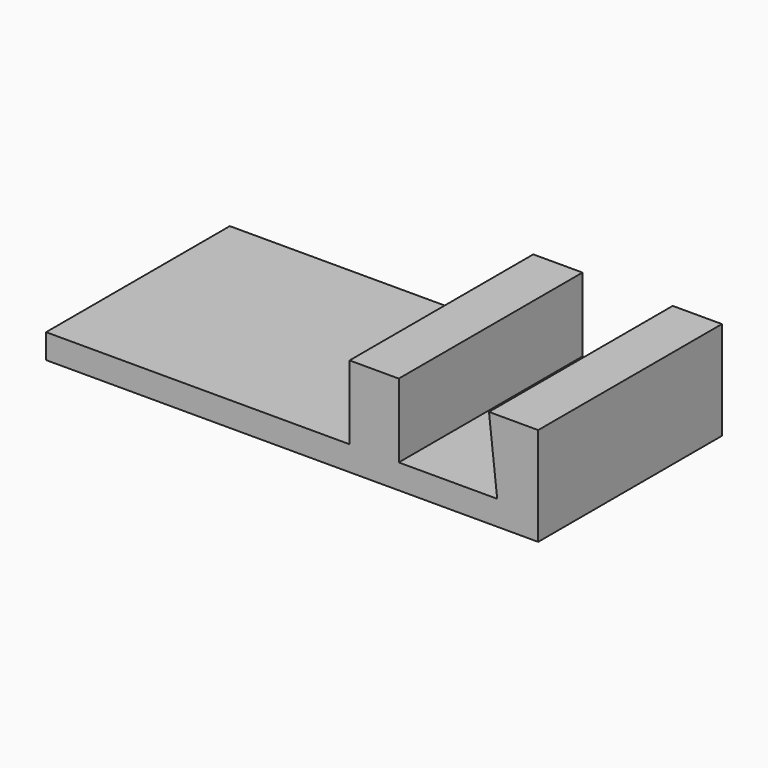
from build123d import *

# Parameters (mm, degrees)
PAD_DEPTH = 28


with BuildPart() as part:
    # Sketch → Pad (new body)
    with BuildSketch(Plane.XZ):
        Polygon((0, 0), (0, 3), (37, 3), (37, 12), (43, 12), (43, 3), (55, 3), (54, 12), (60, 12), (60, 0), align=None)
    extrude(amount=PAD_DEPTH)


solid = part.part
